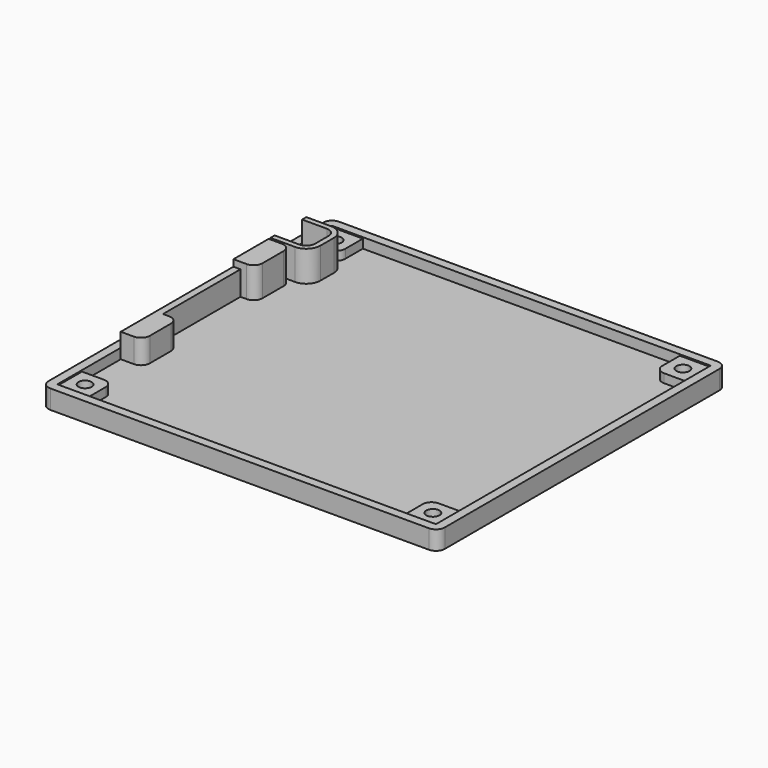
from build123d import *

# Parameters (mm, degrees)
F1_DEPTH  = 2
F2_W      = 86
F2_H      = 78
F3_DEPTH  = 2.3
F5_DEPTH  = 2
F6_R      = 1.5
F7_DEPTH  = 6
F9_DEPTH  = 7
F11_DEPTH = 5.5
F13_DEPTH = 25
F15_DEPTH = 7
F16_W     = 1.6
F16_H     = 22
F17_DEPTH = 5.5


with BuildPart() as f1:
    # F0 (on Top) → F1 (new body)
    with BuildSketch(Plane.XY):
        with BuildLine():
            ThreePointArc((0, 2), (0.585786, 0.585786), (2, 0))
            Line((2, 0), (88, 0))
            ThreePointArc((88, 0), (89.414214, 0.585786), (90, 2))
            Line((90, 2), (90, 80))
            ThreePointArc((90, 80), (89.414214, 81.414214), (88, 82))
            Line((88, 82), (2, 82))
            ThreePointArc((2, 82), (0.585786, 81.414214), (0, 80))
            Line((0, 80), (0, 2))
        make_face()
    extrude(amount=F1_DEPTH)

    # F2 (on face) → F3 (join)
    with BuildSketch(Plane.XY.offset(2)):
        with BuildLine():
            ThreePointArc((2, 82), (0.585786, 81.414214), (0, 80))
            Line((0, 80), (0, 2))
            ThreePointArc((0, 2), (0.585786, 0.585786), (2, 0))
            Line((2, 0), (88, 0))
            ThreePointArc((88, 0), (89.414214, 0.585786), (90, 2))
            Line((90, 2), (90, 80))
            ThreePointArc((90, 80), (89.414214, 81.414214), (88, 82))
            Line((88, 82), (2, 82))
        make_face()
        with Locations((45, 41)):
            Rectangle(F2_W, F2_H, mode=Mode.SUBTRACT)
    extrude(amount=F3_DEPTH)

    # F4 (on face) → F5 (join)
    with BuildSketch(Plane.XY.offset(2)):
        with BuildLine():
            Line((2, 9), (2, 2))
            Line((2, 2), (9, 2))
            Line((9, 2), (9, 7))
            ThreePointArc((9, 7), (8.414214, 8.414214), (7, 9))
            Line((7, 9), (2, 9))
        make_face()
        with BuildLine():
            Line((9, 80), (2, 80))
            Line((2, 80), (2, 73))
            Line((2, 73), (7, 73))
            ThreePointArc((7, 73), (8.414214, 73.585786), (9, 75))
            Line((9, 75), (9, 80))
        make_face()
        with BuildLine():
            Line((81, 2), (88, 2))
            Line((88, 2), (88, 9))
            Line((88, 9), (83, 9))
            ThreePointArc((83, 9), (81.585786, 8.414214), (81, 7))
            Line((81, 7), (81, 2))
        make_face()
        with BuildLine():
            Line((88, 73), (88, 80))
            Line((88, 80), (81, 80))
            Line((81, 80), (81, 75))
            ThreePointArc((81, 75), (81.585786, 73.585786), (83, 73))
            Line((83, 73), (88, 73))
        make_face()
    extrude(amount=F5_DEPTH)

    # F6 (on face) → F7 (cut)
    with BuildSketch(Plane(origin=(0, 0, 0), x_dir=(1, 0, 0), z_dir=(0, 0, -1))):
        with Locations((84.5, -5.5)):
            Circle(F6_R)
        with Locations((84.5, -76.5)):
            Circle(F6_R)
        with Locations((5.5, -76.5)):
            Circle(F6_R)
        with Locations((5.5, -5.5)):
            Circle(F6_R)
    extrude(amount=-F7_DEPTH, mode=Mode.SUBTRACT)

    # F8 (on face) → F9 (join)
    with BuildSketch(Plane.XY.offset(2)):
        with BuildLine():
            Line((5, 62), (2, 62))
            Line((2, 62), (2, 52))
            Line((2, 52), (5, 52))
            ThreePointArc((5, 52), (6.414214, 52.585786), (7, 54))
            Line((7, 54), (7, 60))
            ThreePointArc((7, 60), (6.414214, 61.414214), (5, 62))
        make_face()
    extrude(amount=F9_DEPTH)

    # F10 (on face) → F11 (join)
    with BuildSketch(Plane.XY.offset(2)):
        with BuildLine():
            Line((2, 30), (2, 20))
            Line((2, 20), (5, 20))
            ThreePointArc((5, 20), (6.414214, 20.585786), (7, 22))
            Line((7, 22), (7, 28))
            ThreePointArc((7, 28), (6.414214, 29.414214), (5, 30))
            Line((5, 30), (2, 30))
        make_face()
    extrude(amount=F11_DEPTH)

    # F12 (on face) → F13 (cut)
    with BuildSketch(Plane(origin=(0, 0, 0), x_dir=(1, 0, 0), z_dir=(0, 0, -1))):
        with BuildLine():
            Line((2, -63.7), (2, -71.5))
            Line((2, -71.5), (7.6, -71.5))
            ThreePointArc((7.6, -71.5), (9.014214, -70.914214), (9.6, -69.5))
            Line((9.6, -69.5), (9.6, -65.7))
            ThreePointArc((9.6, -65.7), (9.014214, -64.285786), (7.6, -63.7))
            Line((7.6, -63.7), (2, -63.7))
        make_face()
    extrude(amount=-F13_DEPTH, mode=Mode.SUBTRACT)

    # F14 (on face) → F15 (join)
    with BuildSketch(Plane.XY.offset(2)):
        with BuildLine():
            ThreePointArc((10.8, 69.5), (9.862742, 71.762742), (7.6, 72.7))
            Line((7.6, 72.7), (2, 72.7))
            Line((2, 72.7), (2, 71.5))
            Line((2, 71.5), (7.6, 71.5))
            ThreePointArc((7.6, 71.5), (9.014214, 70.914214), (9.6, 69.5))
            Line((9.6, 69.5), (9.6, 65.7))
            ThreePointArc((9.6, 65.7), (9.014214, 64.285786), (7.6, 63.7))
            Line((7.6, 63.7), (2, 63.7))
            Line((2, 63.7), (2, 62.5))
            Line((2, 62.5), (7.6, 62.5))
            ThreePointArc((7.6, 62.5), (9.862742, 63.437258), (10.8, 65.7))
            Line((10.8, 65.7), (10.8, 69.5))
        make_face()
    extrude(amount=F15_DEPTH)

    # F16 (on face) → F17 (join)
    with BuildSketch(Plane.XY.offset(2)):
        with Locations((2.8, 41)):
            Rectangle(F16_W, F16_H)
    extrude(amount=F17_DEPTH)


solid = f1.part
